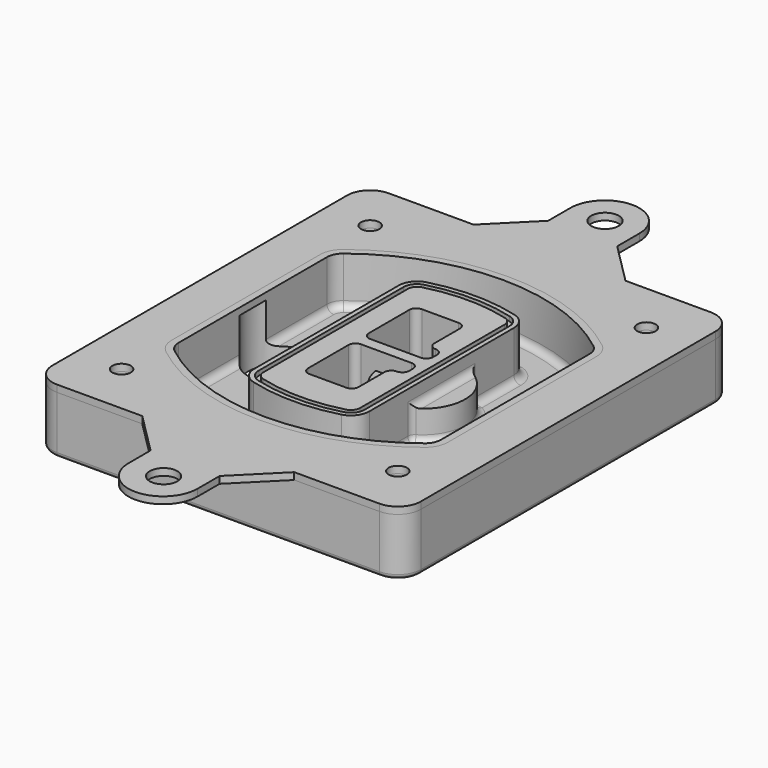
from build123d import *

# Parameters (mm, degrees)
F0_R      = 4
F1_DEPTH  = 25
F2_DEPTH  = 3
F3_DEPTH  = 18
F5_DEPTH  = 21
F6_DEPTH  = 2
F8_DEPTH  = 20
F9_DEPTH  = 16
F10_DEPTH = 25
F7_R      = 6
F7_R_2    = 4
F11_DEPTH = 6
F13_DEPTH = 9
F14_R     = 3
F15_R     = 2
F16_R     = 6
F16_R_2   = 4
F17_DEPTH = 3


with BuildPart() as f1:
    # F0 (on Top) → F1 (new body)
    with BuildSketch(Plane.XY):
        with BuildLine():
            ThreePointArc((-80, -80), (-77.0710678119, -87.0710678119), (-70, -90))
            Line((-70, -90), (70, -90))
            ThreePointArc((70, -90), (77.0710678119, -87.0710678119), (80, -80))
            Line((80, -80), (80, 80))
            ThreePointArc((80, 80), (77.0710678119, 87.0710678119), (70, 90))
            Line((70, 90), (-70, 90))
            ThreePointArc((-70, 90), (-77.0710678119, 87.0710678119), (-80, 80))
            Line((-80, 80), (-80, -80))
        make_face()
        with Locations((-60, -67.5)):
            Circle(F0_R, mode=Mode.SUBTRACT)
        with Locations((60, -67.5)):
            Circle(F0_R, mode=Mode.SUBTRACT)
        with Locations((-60, 67.5)):
            Circle(F0_R, mode=Mode.SUBTRACT)
        with BuildLine():
            ThreePointArc((-64, 40.2934422872), (-62.5820384798, 46.4328484224), (-58.6153846154, 51.3286200352))
            ThreePointArc((-58.6153846154, 51.3286200352), (0, 71.5), (58.6153846154, 51.3286200352))
            ThreePointArc((58.6153846154, 51.3286200352), (62.5820384798, 46.4328484224), (64, 40.2934422872))
            Line((64, 40.2934422872), (64, -40.2934422872))
            ThreePointArc((64, -40.2934422872), (62.5820384798, -46.4328484224), (58.6153846154, -51.3286200352))
            ThreePointArc((58.6153846154, -51.3286200352), (0, -71.5), (-58.6153846154, -51.3286200352))
            ThreePointArc((-58.6153846154, -51.3286200352), (-62.5820384798, -46.4328484224), (-64, -40.2934422872))
            Line((-64, -40.2934422872), (-64, 40.2934422872))
        make_face(mode=Mode.SUBTRACT)
        with Locations((60, 67.5)):
            Circle(F0_R, mode=Mode.SUBTRACT)
        with BuildLine():
            ThreePointArc((58.6153846154, 51.3286200352), (0, 71.5), (-58.6153846154, 51.3286200352))
            ThreePointArc((-58.6153846154, 51.3286200352), (-62.5820384798, 46.4328484224), (-64, 40.2934422872))
            Line((-64, 40.2934422872), (-64, -40.2934422872))
            ThreePointArc((-64, -40.2934422872), (-62.5820384798, -46.4328484224), (-58.6153846154, -51.3286200352))
            ThreePointArc((-58.6153846154, -51.3286200352), (0, -71.5), (58.6153846154, -51.3286200352))
            ThreePointArc((58.6153846154, -51.3286200352), (62.5820384798, -46.4328484224), (64, -40.2934422872))
            Line((64, -40.2934422872), (64, 40.2934422872))
            ThreePointArc((64, 40.2934422872), (62.5820384798, 46.4328484224), (58.6153846154, 51.3286200352))
        make_face()
        with BuildLine():
            Line((-60, -40.2934422872), (-60, 40.2934422872))
            ThreePointArc((-60, 40.2934422872), (-58.9871703427, 44.6787323838), (-56.1538461538, 48.1757121072))
            ThreePointArc((-56.1538461538, 48.1757121072), (0, 67.5), (56.1538461538, 48.1757121072))
            ThreePointArc((56.1538461538, 48.1757121072), (58.9871703427, 44.6787323838), (60, 40.2934422872))
            Line((60, 40.2934422872), (60, -40.2934422872))
            ThreePointArc((60, -40.2934422872), (58.9871703427, -44.6787323838), (56.1538461538, -48.1757121072))
            ThreePointArc((56.1538461538, -48.1757121072), (0, -67.5), (-56.1538461538, -48.1757121072))
            ThreePointArc((-56.1538461538, -48.1757121072), (-58.9871703427, -44.6787323838), (-60, -40.2934422872))
        make_face(mode=Mode.SUBTRACT)
        with BuildLine():
            ThreePointArc((-56.1538461538, 48.1757121072), (-58.9871703427, 44.6787323838), (-60, 40.2934422872))
            Line((-60, 40.2934422872), (-60, -40.2934422872))
            ThreePointArc((-60, -40.2934422872), (-58.9871703427, -44.6787323838), (-56.1538461538, -48.1757121072))
            ThreePointArc((-56.1538461538, -48.1757121072), (0, -67.5), (56.1538461538, -48.1757121072))
            ThreePointArc((56.1538461538, -48.1757121072), (58.9871703427, -44.6787323838), (60, -40.2934422872))
            Line((60, -40.2934422872), (60, 40.2934422872))
            ThreePointArc((60, 40.2934422872), (58.9871703427, 44.6787323838), (56.1538461538, 48.1757121072))
            ThreePointArc((56.1538461538, 48.1757121072), (0, 67.5), (-56.1538461538, 48.1757121072))
        make_face()
        with BuildLine():
            ThreePointArc((54.3076923077, 45.8110311612), (56.2910192399, 43.3631453548), (57, 40.2934422872))
            Line((57, 40.2934422872), (57, -40.2934422872))
            ThreePointArc((57, -40.2934422872), (56.2910192399, -43.3631453548), (54.3076923077, -45.8110311612))
            ThreePointArc((54.3076923077, -45.8110311612), (0, -64.5), (-54.3076923077, -45.8110311612))
            ThreePointArc((-54.3076923077, -45.8110311612), (-56.2910192399, -43.3631453548), (-57, -40.2934422872))
            Line((-57, -40.2934422872), (-57, 40.2934422872))
            ThreePointArc((-57, 40.2934422872), (-56.2910192399, 43.3631453548), (-54.3076923077, 45.8110311612))
            ThreePointArc((-54.3076923077, 45.8110311612), (0, 64.5), (54.3076923077, 45.8110311612))
        make_face(mode=Mode.SUBTRACT)
        with BuildLine():
            Line((57, -40.2934422872), (57, 40.2934422872))
            ThreePointArc((57, 40.2934422872), (56.2910192399, 43.3631453548), (54.3076923077, 45.8110311612))
            ThreePointArc((54.3076923077, 45.8110311612), (0, 64.5), (-54.3076923077, 45.8110311612))
            ThreePointArc((-54.3076923077, 45.8110311612), (-56.2910192399, 43.3631453548), (-57, 40.2934422872))
            Line((-57, 40.2934422872), (-57, -40.2934422872))
            ThreePointArc((-57, -40.2934422872), (-56.2910192399, -43.3631453548), (-54.3076923077, -45.8110311612))
            ThreePointArc((-54.3076923077, -45.8110311612), (0, -64.5), (54.3076923077, -45.8110311612))
            ThreePointArc((54.3076923077, -45.8110311612), (56.2910192399, -43.3631453548), (57, -40.2934422872))
        make_face()
    extrude(amount=-F1_DEPTH)

    # F0 (on Top) → F2 (join)
    with BuildSketch(Plane.XY):
        with BuildLine():
            ThreePointArc((-56.1538461538, 48.1757121072), (-58.9871703427, 44.6787323838), (-60, 40.2934422872))
            Line((-60, 40.2934422872), (-60, -40.2934422872))
            ThreePointArc((-60, -40.2934422872), (-58.9871703427, -44.6787323838), (-56.1538461538, -48.1757121072))
            ThreePointArc((-56.1538461538, -48.1757121072), (0, -67.5), (56.1538461538, -48.1757121072))
            ThreePointArc((56.1538461538, -48.1757121072), (58.9871703427, -44.6787323838), (60, -40.2934422872))
            Line((60, -40.2934422872), (60, 40.2934422872))
            ThreePointArc((60, 40.2934422872), (58.9871703427, 44.6787323838), (56.1538461538, 48.1757121072))
            ThreePointArc((56.1538461538, 48.1757121072), (0, 67.5), (-56.1538461538, 48.1757121072))
        make_face()
        with BuildLine():
            ThreePointArc((54.3076923077, 45.8110311612), (56.2910192399, 43.3631453548), (57, 40.2934422872))
            Line((57, 40.2934422872), (57, -40.2934422872))
            ThreePointArc((57, -40.2934422872), (56.2910192399, -43.3631453548), (54.3076923077, -45.8110311612))
            ThreePointArc((54.3076923077, -45.8110311612), (0, -64.5), (-54.3076923077, -45.8110311612))
            ThreePointArc((-54.3076923077, -45.8110311612), (-56.2910192399, -43.3631453548), (-57, -40.2934422872))
            Line((-57, -40.2934422872), (-57, 40.2934422872))
            ThreePointArc((-57, 40.2934422872), (-56.2910192399, 43.3631453548), (-54.3076923077, 45.8110311612))
            ThreePointArc((-54.3076923077, 45.8110311612), (0, 64.5), (54.3076923077, 45.8110311612))
        make_face(mode=Mode.SUBTRACT)
    extrude(amount=F2_DEPTH)

    # F0 (on Top) → F3 (cut)
    with BuildSketch(Plane.XY):
        with BuildLine():
            Line((57, -40.2934422872), (57, 40.2934422872))
            ThreePointArc((57, 40.2934422872), (56.2910192399, 43.3631453548), (54.3076923077, 45.8110311612))
            ThreePointArc((54.3076923077, 45.8110311612), (0, 64.5), (-54.3076923077, 45.8110311612))
            ThreePointArc((-54.3076923077, 45.8110311612), (-56.2910192399, 43.3631453548), (-57, 40.2934422872))
            Line((-57, 40.2934422872), (-57, -40.2934422872))
            ThreePointArc((-57, -40.2934422872), (-56.2910192399, -43.3631453548), (-54.3076923077, -45.8110311612))
            ThreePointArc((-54.3076923077, -45.8110311612), (0, -64.5), (54.3076923077, -45.8110311612))
            ThreePointArc((54.3076923077, -45.8110311612), (56.2910192399, -43.3631453548), (57, -40.2934422872))
        make_face()
    extrude(amount=-F3_DEPTH, mode=Mode.SUBTRACT)

    # F4 (on face) → F5 (join, through all)
    with BuildSketch(Plane.XY.offset(3)):
        with BuildLine():
            ThreePointArc((-25, -39.2465276821), (-23.3511545998, -44.1109737193), (-19.0842911877, -46.9702398883))
            ThreePointArc((-19.0842911877, -46.9702398883), (0, -49.5), (19.0842911877, -46.9702398883))
            ThreePointArc((19.0842911877, -46.9702398883), (23.3511545998, -44.1109737193), (25, -39.2465276821))
            Line((25, -39.2465276821), (25, 39.2465276821))
            ThreePointArc((25, 39.2465276821), (23.3511545998, 44.1109737193), (19.0842911877, 46.9702398883))
            ThreePointArc((19.0842911877, 46.9702398883), (0, 49.5), (-19.0842911877, 46.9702398883))
            ThreePointArc((-19.0842911877, 46.9702398883), (-23.3511545998, 44.1109737193), (-25, 39.2465276821))
            Line((-25, 39.2465276821), (-25, -39.2465276821))
        make_face()
        with BuildLine():
            ThreePointArc((18.5632183908, 45.0393118368), (21.7633659499, 42.89486221), (23, 39.2465276821))
            Line((23, 39.2465276821), (23, -39.2465276821))
            ThreePointArc((23, -39.2465276821), (21.7633659499, -42.89486221), (18.5632183908, -45.0393118368))
            ThreePointArc((18.5632183908, -45.0393118368), (0, -47.5), (-18.5632183908, -45.0393118368))
            ThreePointArc((-18.5632183908, -45.0393118368), (-21.7633659499, -42.89486221), (-23, -39.2465276821))
            Line((-23, -39.2465276821), (-23, 39.2465276821))
            ThreePointArc((-23, 39.2465276821), (-21.7633659499, 42.89486221), (-18.5632183908, 45.0393118368))
            ThreePointArc((-18.5632183908, 45.0393118368), (0, 47.5), (18.5632183908, 45.0393118368))
        make_face(mode=Mode.SUBTRACT)
        with BuildLine():
            Line((23, -39.2465276821), (23, 39.2465276821))
            ThreePointArc((23, 39.2465276821), (21.7633659499, 42.89486221), (18.5632183908, 45.0393118368))
            ThreePointArc((18.5632183908, 45.0393118368), (0, 47.5), (-18.5632183908, 45.0393118368))
            ThreePointArc((-18.5632183908, 45.0393118368), (-21.7633659499, 42.89486221), (-23, 39.2465276821))
            Line((-23, 39.2465276821), (-23, -39.2465276821))
            ThreePointArc((-23, -39.2465276821), (-21.7633659499, -42.89486221), (-18.5632183908, -45.0393118368))
            ThreePointArc((-18.5632183908, -45.0393118368), (0, -47.5), (18.5632183908, -45.0393118368))
            ThreePointArc((18.5632183908, -45.0393118368), (21.7633659499, -42.89486221), (23, -39.2465276821))
        make_face()
        with BuildLine():
            ThreePointArc((18.0421455939, 43.1083837852), (20.1755772999, 41.6787507007), (21, 39.2465276821))
            Line((21, 39.2465276821), (21, -39.2465276821))
            ThreePointArc((21, -39.2465276821), (20.1755772999, -41.6787507007), (18.0421455939, -43.1083837852))
            ThreePointArc((18.0421455939, -43.1083837852), (0, -45.5), (-18.0421455939, -43.1083837852))
            ThreePointArc((-18.0421455939, -43.1083837852), (-20.1755772999, -41.6787507007), (-21, -39.2465276821))
            Line((-21, -39.2465276821), (-21, 39.2465276821))
            ThreePointArc((-21, 39.2465276821), (-20.1755772999, 41.6787507007), (-18.0421455939, 43.1083837852))
            ThreePointArc((-18.0421455939, 43.1083837852), (0, 45.5), (18.0421455939, 43.1083837852))
        make_face(mode=Mode.SUBTRACT)
        with BuildLine():
            Line((21, -39.2465276821), (21, 39.2465276821))
            ThreePointArc((21, 39.2465276821), (20.1755772999, 41.6787507007), (18.0421455939, 43.1083837852))
            ThreePointArc((18.0421455939, 43.1083837852), (0, 45.5), (-18.0421455939, 43.1083837852))
            ThreePointArc((-18.0421455939, 43.1083837852), (-20.1755772999, 41.6787507007), (-21, 39.2465276821))
            Line((-21, 39.2465276821), (-21, -39.2465276821))
            ThreePointArc((-21, -39.2465276821), (-20.1755772999, -41.6787507007), (-18.0421455939, -43.1083837852))
            ThreePointArc((-18.0421455939, -43.1083837852), (0, -45.5), (18.0421455939, -43.1083837852))
            ThreePointArc((18.0421455939, -43.1083837852), (20.1755772999, -41.6787507007), (21, -39.2465276821))
        make_face()
        with BuildLine():
            Line((-8, -2.5), (14, -2.5))
            ThreePointArc((14, -2.5), (16.1213203436, -3.3786796564), (17, -5.5))
            Line((17, -5.5), (17, -7.5))
            ThreePointArc((17, -7.5), (16.1213203436, -9.6213203436), (14, -10.5))
            ThreePointArc((14, -10.5), (11.8786796564, -11.3786796564), (11, -13.5))
            Line((11, -13.5), (11, -27.5))
            ThreePointArc((11, -27.5), (10.1213203436, -29.6213203436), (8, -30.5))
            Line((8, -30.5), (-8, -30.5))
            ThreePointArc((-8, -30.5), (-10.1213203436, -29.6213203436), (-11, -27.5))
            Line((-11, -27.5), (-11, -5.5))
            ThreePointArc((-11, -5.5), (-10.1213203436, -3.3786796564), (-8, -2.5))
        make_face(mode=Mode.SUBTRACT)
        with BuildLine():
            ThreePointArc((-8, 2.5), (-10.1213203436, 3.3786796564), (-11, 5.5))
            Line((-11, 5.5), (-11, 27.5))
            ThreePointArc((-11, 27.5), (-10.1213203436, 29.6213203436), (-8, 30.5))
            Line((-8, 30.5), (8, 30.5))
            ThreePointArc((8, 30.5), (10.1213203436, 29.6213203436), (11, 27.5))
            Line((11, 27.5), (11, 13.5))
            ThreePointArc((11, 13.5), (11.8786796564, 11.3786796564), (14, 10.5))
            ThreePointArc((14, 10.5), (16.1213203436, 9.6213203436), (17, 7.5))
            Line((17, 7.5), (17, 5.5))
            ThreePointArc((17, 5.5), (16.1213203436, 3.3786796564), (14, 2.5))
            Line((14, 2.5), (-8, 2.5))
        make_face(mode=Mode.SUBTRACT)
    extrude(amount=-F5_DEPTH)

    # F4 (on face) → F6 (cut)
    with BuildSketch(Plane.XY.offset(3)):
        with BuildLine():
            Line((23, -39.2465276821), (23, 39.2465276821))
            ThreePointArc((23, 39.2465276821), (21.7633659499, 42.89486221), (18.5632183908, 45.0393118368))
            ThreePointArc((18.5632183908, 45.0393118368), (0, 47.5), (-18.5632183908, 45.0393118368))
            ThreePointArc((-18.5632183908, 45.0393118368), (-21.7633659499, 42.89486221), (-23, 39.2465276821))
            Line((-23, 39.2465276821), (-23, -39.2465276821))
            ThreePointArc((-23, -39.2465276821), (-21.7633659499, -42.89486221), (-18.5632183908, -45.0393118368))
            ThreePointArc((-18.5632183908, -45.0393118368), (0, -47.5), (18.5632183908, -45.0393118368))
            ThreePointArc((18.5632183908, -45.0393118368), (21.7633659499, -42.89486221), (23, -39.2465276821))
        make_face()
        with BuildLine():
            ThreePointArc((18.0421455939, 43.1083837852), (20.1755772999, 41.6787507007), (21, 39.2465276821))
            Line((21, 39.2465276821), (21, -39.2465276821))
            ThreePointArc((21, -39.2465276821), (20.1755772999, -41.6787507007), (18.0421455939, -43.1083837852))
            ThreePointArc((18.0421455939, -43.1083837852), (0, -45.5), (-18.0421455939, -43.1083837852))
            ThreePointArc((-18.0421455939, -43.1083837852), (-20.1755772999, -41.6787507007), (-21, -39.2465276821))
            Line((-21, -39.2465276821), (-21, 39.2465276821))
            ThreePointArc((-21, 39.2465276821), (-20.1755772999, 41.6787507007), (-18.0421455939, 43.1083837852))
            ThreePointArc((-18.0421455939, 43.1083837852), (0, 45.5), (18.0421455939, 43.1083837852))
        make_face(mode=Mode.SUBTRACT)
    extrude(amount=-F6_DEPTH, mode=Mode.SUBTRACT)

    # F7 (on face) → F8 (join)
    with BuildSketch(Plane(origin=(0, 0, -25), x_dir=(1, 0, 0), z_dir=(0, 0, -1))):
        with BuildLine():
            ThreePointArc((3.28842436, 0), (16.7567035675, 13.4682792075), (30.224982775, 0))
            Line((30.224982775, 0), (35.224982775, 0))
            ThreePointArc((35.224982775, 0), (16.7567035675, 18.4682792075), (-1.71157564, 0))
            Line((-1.71157564, 0), (3.28842436, 0))
        make_face()
        with BuildLine():
            Line((3.28842436, 0), (30.224982775, 0))
            ThreePointArc((30.224982775, 0), (16.7567035675, 13.4682792075), (3.28842436, 0))
        make_face()
        with BuildLine():
            ThreePointArc((3.28842436, 0), (16.7567035675, -13.4682792075), (30.224982775, 0))
            Line((30.224982775, 0), (3.28842436, 0))
        make_face()
        with BuildLine():
            Line((35.224982775, 0), (30.224982775, 0))
            ThreePointArc((30.224982775, 0), (16.7567035675, -13.4682792075), (3.28842436, 0))
            Line((3.28842436, 0), (-1.71157564, 0))
            ThreePointArc((-1.71157564, 0), (16.7567035675, -18.4682792075), (35.224982775, 0))
        make_face()
    extrude(amount=-F8_DEPTH)

    # F7 (on face) → F9 (cut)
    with BuildSketch(Plane(origin=(0, 0, -25), x_dir=(1, 0, 0), z_dir=(0, 0, -1))):
        with BuildLine():
            Line((3.28842436, 0), (30.224982775, 0))
            ThreePointArc((30.224982775, 0), (16.7567035675, 13.4682792075), (3.28842436, 0))
        make_face()
        with BuildLine():
            ThreePointArc((3.28842436, 0), (16.7567035675, -13.4682792075), (30.224982775, 0))
            Line((30.224982775, 0), (3.28842436, 0))
        make_face()
    extrude(amount=-F9_DEPTH, mode=Mode.SUBTRACT)

    # F7 (on face) → F10 (cut)
    with BuildSketch(Plane(origin=(0, 0, -25), x_dir=(1, 0, 0), z_dir=(0, 0, -1))):
        with BuildLine():
            Line((-59.0318229325, 0), (-32.0952645175, 0))
            ThreePointArc((-32.0952645175, 0), (-45.563543725, 13.4682792075), (-59.0318229325, 0))
        make_face()
        with BuildLine():
            ThreePointArc((-59.0318229325, 0), (-45.563543725, -13.4682792075), (-32.0952645175, 0))
            Line((-32.0952645175, 0), (-59.0318229325, 0))
        make_face()
    extrude(amount=-F10_DEPTH, mode=Mode.SUBTRACT)

    # F7 (on face) → F11 (cut)
    with BuildSketch(Plane(origin=(0, 0, -25), x_dir=(1, 0, 0), z_dir=(0, 0, -1))):
        with Locations((60, -67.5)):
            Circle(F7_R)
        with Locations((60, -67.5)):
            Circle(F7_R_2, mode=Mode.SUBTRACT)
        with Locations((60, -67.5)):
            Circle(F7_R)
        with Locations((60, -67.5)):
            Circle(F7_R_2, mode=Mode.SUBTRACT)
        with Locations((-60, -67.5)):
            Circle(F7_R)
        with Locations((-60, -67.5)):
            Circle(F7_R_2, mode=Mode.SUBTRACT)
        with Locations((-60, -67.5)):
            Circle(F7_R)
        with Locations((-60, -67.5)):
            Circle(F7_R_2, mode=Mode.SUBTRACT)
        with Locations((-60, 67.5)):
            Circle(F7_R)
        with Locations((-60, 67.5)):
            Circle(F7_R_2, mode=Mode.SUBTRACT)
        with Locations((-60, 67.5)):
            Circle(F7_R)
        with Locations((-60, 67.5)):
            Circle(F7_R_2, mode=Mode.SUBTRACT)
        with Locations((60, 67.5)):
            Circle(F7_R)
        with Locations((60, 67.5)):
            Circle(F7_R_2, mode=Mode.SUBTRACT)
        with Locations((60, 67.5)):
            Circle(F7_R)
        with Locations((60, 67.5)):
            Circle(F7_R_2, mode=Mode.SUBTRACT)
    extrude(amount=-F11_DEPTH, mode=Mode.SUBTRACT)

    # F12 (on face) → F13 (cut, through all)
    with BuildSketch(Plane(origin=(0, 0, -9), x_dir=(1, 0, 0), z_dir=(0, 0, -1))):
        with BuildLine():
            Line((11, 13.5), (11, 17.5481537753))
            ThreePointArc((11, 17.5481537753), (2.5696536419, 11.8239143813), (-1.5415842455, 2.5))
            Line((-1.5415842455, 2.5), (3.5224848595, 2.5))
            ThreePointArc((3.5224848595, 2.5), (6.1857188154, 8.3455872281), (11.2536447004, 12.2927168648))
            ThreePointArc((11.2536447004, 12.2927168648), (11.0640958889, 12.8831798879), (11, 13.5))
        make_face()
        with BuildLine():
            ThreePointArc((11.2536447004, -12.2927168648), (6.1857188154, -8.3455872281), (3.5224848595, -2.5))
            Line((3.5224848595, -2.5), (-1.5415842455, -2.5))
            ThreePointArc((-1.5415842455, -2.5), (2.5696536419, -11.8239143813), (11, -17.5481537753))
            Line((11, -17.5481537753), (11, -13.5))
            ThreePointArc((11, -13.5), (11.0640958889, -12.8831798879), (11.2536447004, -12.2927168648))
        make_face()
        with BuildLine():
            ThreePointArc((11.2536447004, 12.2927168648), (6.1857188154, 8.3455872281), (3.5224848595, 2.5))
            Line((3.5224848595, 2.5), (14, 2.5))
            ThreePointArc((14, 2.5), (16.1213203436, 3.3786796564), (17, 5.5))
            Line((17, 5.5), (17, 7.5))
            ThreePointArc((17, 7.5), (16.1213203436, 9.6213203436), (14, 10.5))
            ThreePointArc((14, 10.5), (12.3601599782, 10.9878446101), (11.2536447004, 12.2927168648))
        make_face()
        with BuildLine():
            Line((14, -2.5), (3.5224848595, -2.5))
            ThreePointArc((3.5224848595, -2.5), (6.1857188154, -8.3455872281), (11.2536447004, -12.2927168648))
            ThreePointArc((11.2536447004, -12.2927168648), (12.3601599782, -10.9878446101), (14, -10.5))
            ThreePointArc((14, -10.5), (16.1213203436, -9.6213203436), (17, -7.5))
            Line((17, -7.5), (17, -5.5))
            ThreePointArc((17, -5.5), (16.1213203436, -3.3786796564), (14, -2.5))
        make_face()
    extrude(amount=F13_DEPTH, mode=Mode.SUBTRACT)

    # F14
    f14_edges = [f1.edges().sort_by_distance(p)[0] for p in [
        (-57, -23.703476, -18),
        (-57, 23.703476, -18),
        (25, 0, -5),
        (25, 16.526506, -11.5),
        (25, -16.526506, -11.5),
        (25, -27.886517, -18),
        (35.224983, 0, -18),
    ]]
    fillet(f14_edges, radius=F14_R)

    # F15
    f15_edges = [f1.edges().sort_by_distance(p)[0] for p in [
        (0, -90, -25),
    ]]
    fillet(f15_edges, radius=F15_R)


with BuildPart() as f17:
    # F16 (on face) → F17 (new body, through all)
    with BuildSketch(Plane.XY):
        with BuildLine():
            Line((15, -108), (33, -90))
            Line((33, -90), (-33, -90))
            Line((-33, -90), (-15, -108))
            Line((-15, -108), (-15, -120))
            ThreePointArc((-15, -120), (0, -135), (15, -120))
            Line((15, -120), (15, -108))
        make_face()
        with Locations((0.2561461843, -120)):
            Circle(F16_R, mode=Mode.SUBTRACT)
        with BuildLine():
            Line((14.8973986759, 108), (14.8973986759, 120))
            ThreePointArc((14.8973986759, 120), (-0.1026013241, 135), (-15.1026013241, 120))
            Line((-15.1026013241, 120), (-15.1026013241, 108))
            Line((-15.1026013241, 108), (-33.1026013241, 90))
            Line((-33.1026013241, 90), (32.8973986759, 90))
            Line((32.8973986759, 90), (14.8973986759, 108))
        make_face()
        with Locations((0, 120)):
            Circle(F16_R, mode=Mode.SUBTRACT)
        with BuildLine():
            Line((70, 90), (32.8973986759, 90))
            Line((32.8973986759, 90), (-33.1026013241, 90))
            Line((-33.1026013241, 90), (-70, 90))
            ThreePointArc((-70, 90), (-77.0710678119, 87.0710678119), (-80, 80))
            Line((-80, 80), (-80, -80))
            ThreePointArc((-80, -80), (-77.0710678119, -87.0710678119), (-70, -90))
            Line((-70, -90), (-33, -90))
            Line((-33, -90), (33, -90))
            Line((33, -90), (70, -90))
            ThreePointArc((70, -90), (77.0710678119, -87.0710678119), (80, -80))
            Line((80, -80), (80, 80))
            ThreePointArc((80, 80), (77.0710678119, 87.0710678119), (70, 90))
        make_face()
        with Locations((-60, -67.5)):
            Circle(F16_R_2, mode=Mode.SUBTRACT)
        with Locations((60, -67.5)):
            Circle(F16_R_2, mode=Mode.SUBTRACT)
        with Locations((-60, 67.5)):
            Circle(F16_R_2, mode=Mode.SUBTRACT)
        with BuildLine():
            ThreePointArc((-60, 40.2934422872), (-58.9871703427, 44.6787323838), (-56.1538461538, 48.1757121072))
            ThreePointArc((-56.1538461538, 48.1757121072), (0, 67.5), (56.1538461538, 48.1757121072))
            ThreePointArc((56.1538461538, 48.1757121072), (58.9871703427, 44.6787323838), (60, 40.2934422872))
            Line((60, 40.2934422872), (60, -40.2934422872))
            ThreePointArc((60, -40.2934422872), (58.9871703427, -44.6787323838), (56.1538461538, -48.1757121072))
            ThreePointArc((56.1538461538, -48.1757121072), (0, -67.5), (-56.1538461538, -48.1757121072))
            ThreePointArc((-56.1538461538, -48.1757121072), (-58.9871703427, -44.6787323838), (-60, -40.2934422872))
            Line((-60, -40.2934422872), (-60, 40.2934422872))
        make_face(mode=Mode.SUBTRACT)
        with Locations((60, 67.5)):
            Circle(F16_R_2, mode=Mode.SUBTRACT)
    extrude(amount=F17_DEPTH)


solid = Compound([f1.part, f17.part])
